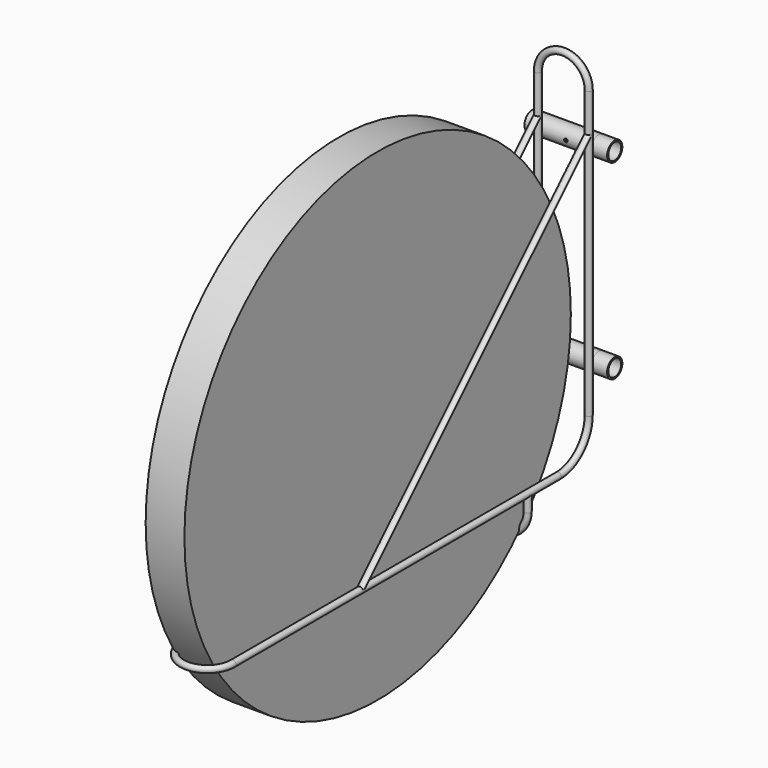
from build123d import *

# Parameters (mm, degrees)
F3_R           = 5
F5_FACE_R      = 5
F5_FACE1_R     = 5
F11_R          = 5
F15_R          = 5
F17_R          = 15
F18_DEPTH      = 25
F18_DEPTH_BACK = 105
F19_R          = 12.7
F20_DEPTH      = 130.0010001
F23_R          = 5
F25_R          = 380
F26_DEPTH      = 30.5
F28_D          = 5.5
F28_DEPTH      = 10
F28_START      = 5.154238
F28_TIP        = 1.6523667023


with BuildPart() as f5:
    # F5: sweep along a path in F0
    with BuildLine(Plane.YZ) as f5_path:
        Line((0, 0), (640, 0))
        ThreePointArc((640, 0), (682.4264068712, 17.5735931288), (700, 60))
        Line((700, 60), (700, 510))
    # F3 (on Front) → F5 (sweep)
    with BuildSketch(Plane.XZ):
        Circle(F3_R)
    sweep(path=f5_path.line)


with BuildPart() as f6_1:
    # F6: instance of F5
    add(f5.part.mirror(Plane.YZ.offset(-40)))


with BuildPart() as f5_1:
    add(f5.part)

    add(f6_1.part)  # F7 merges F6_1
    # F7: sweep along a path in F2
    with BuildLine(Plane.XZ.offset(-700)) as f7_path:
        ThreePointArc((0, 510), (-40, 550), (-80, 510))
    # F5_face (on face) → F7 (sweep)
    with BuildSketch(Plane(origin=(0, 700, 510), x_dir=(1, 0, 0), z_dir=(0, 0, 1))):
        Circle(F5_FACE_R)
    sweep(path=f7_path.line)

    # F9: sweep along a path in F8
    with BuildLine(Plane.XY) as f9_path:
        ThreePointArc((-80, 0), (-40, -40), (0, 0))
    # F5_face1 (on face) → F9 (sweep)
    with BuildSketch(Plane.XZ):
        Circle(F5_FACE1_R)
    sweep(path=f9_path.line)

    # F12: sweep along a path in F10
    with BuildLine(Plane.YZ) as f12_path:
        Line((700, 450), (250, 0))
    # F11 (on offset) → F12 (sweep)
    with BuildSketch(Plane.XZ.offset(-700)):
        with Locations((0, 450)):
            Circle(F11_R)
    sweep(path=f12_path.line)

    # F16: sweep along a path in F14
    with BuildLine(Plane.XZ.offset(-580)) as f16_path:
        Line((0, 0), (0, -25))
        ThreePointArc((0, -25), (-40, -65), (-80, -25))
        Line((-80, -25), (-80, 0))
    # F15 (on Top) → F16 (sweep)
    with BuildSketch(Plane.XY):
        with Locations((0, 580)):
            Circle(F15_R)
    sweep(path=f16_path.line)

    # F17 (on Right) → F18 (join, two sides)
    with BuildSketch(Plane.YZ) as f18_sk:
        with Locations((719.9, 425)):
            Circle(F17_R)
        with Locations((719.9, 125)):
            Circle(F17_R)
    extrude(amount=F18_DEPTH)
    extrude(f18_sk.sketch, amount=-F18_DEPTH_BACK)

    # F19 (on face) → F20 (cut, through all)
    with BuildSketch(Plane.YZ.offset(25)):
        with Locations((719.9, 425)):
            Circle(F19_R)
        with Locations((719.9, 125)):
            Circle(F19_R)
    extrude(amount=-F20_DEPTH, mode=Mode.SUBTRACT)

    # F24: sweep along a path in F22
    with BuildLine(Plane.YZ.offset(-80)) as f24_path:
        Line((250, 0), (700, 450))
    # F23 (on offset) → F24 (sweep)
    with BuildSketch(Plane.XZ.offset(-700)):
        with Locations((-80, 450)):
            Circle(F23_R)
    sweep(path=f24_path.line)

    # F28
    # its depths count from where the whole tool has entered the part; down to there all is cleared
    with Locations(Plane.XZ.offset(-700).offset(-F28_START)):
        with Locations((-40, 425), (-40, 125)):
            Hole(F28_D / 2, depth=F28_DEPTH)
            with Locations((0, 0, -(F28_DEPTH + F28_TIP / 2))):  # 118° drill point
                Cone(0, F28_D / 2, F28_TIP, mode=Mode.SUBTRACT)


with BuildPart() as f26:
    # F25 (on offset) → F26 (new body, symmetric)
    with BuildSketch(Plane.YZ.offset(-40)):
        with Locations((296.7059016228, 205.4972350597)):
            Circle(F25_R)
    extrude(amount=F26_DEPTH, both=True)


solid = Compound([f5_1.part, f26.part])
